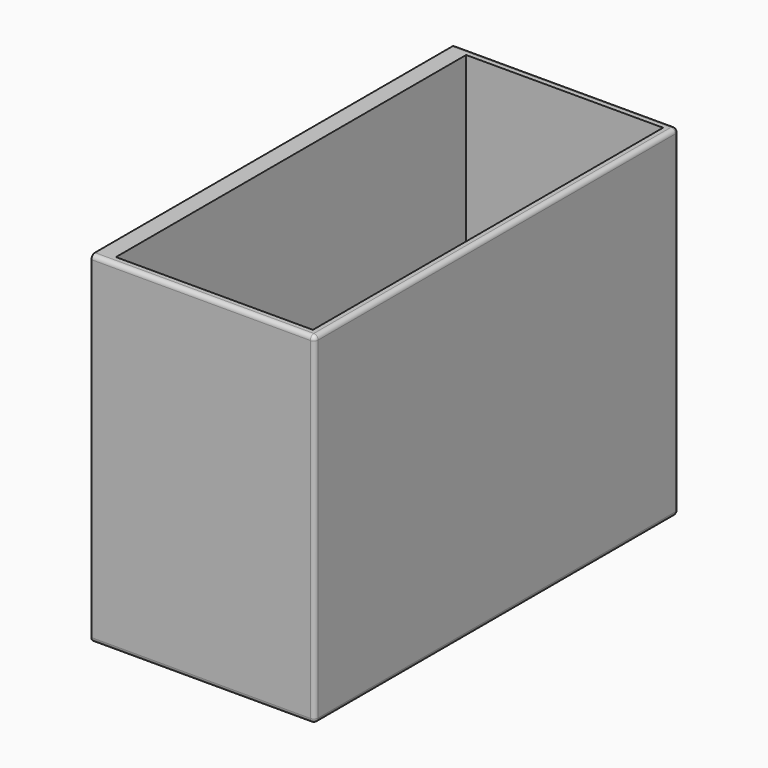
from build123d import *

# Parameters (mm, degrees)
SKETCH_W        = 51
SKETCH_H        = 104
PAD_DEPTH       = 78
SKETCH001_W     = 45
SKETCH001_H     = 100
POCKET_DEPTH    = 75
FILLET_R        = 1
SKETCH002_W     = 20.5
SKETCH002_H     = 6.5
POCKET001_DEPTH = 2


with BuildPart() as part:
    # Sketch → Pad (new body)
    with BuildSketch(Plane.XY):
        with Locations((25.5, 52)):
            Rectangle(SKETCH_W, SKETCH_H)
    extrude(amount=PAD_DEPTH)

    # Sketch001 (on Face6 of Pad) → Pocket (cut)
    with BuildSketch(Plane.XY.offset(78)):
        with Locations((26.5, 52)):
            Rectangle(SKETCH001_W, SKETCH001_H)
    extrude(amount=-POCKET_DEPTH, mode=Mode.SUBTRACT)

    # Fillet
    fillet_edges = [part.edges().sort_by_distance(p)[0] for p in [
        (51, 0, 39),
        (51, 104, 39),
        (51, 52, 0),
        (25.5, 0, 0),
        (51, 52, 78),
        (25.5, 0, 78),
        (25.5, 104, 78),
        (25.5, 104, 0),
    ]]
    fillet(fillet_edges, radius=FILLET_R)

    # Sketch002 (on Face2 of Fillet) → Pocket001 (cut, symmetric)
    with BuildSketch(Plane(origin=(0, 0, 0), x_dir=(0, -1, 0), z_dir=(-1, 0, 0))):
        with Locations((-84.25, 59.75)):
            Rectangle(SKETCH002_W, SKETCH002_H)
        with Locations((-84.25, 23.25)):
            Rectangle(SKETCH002_W, SKETCH002_H)
        with Locations((-21.25, 59.75)):
            Rectangle(SKETCH002_W, SKETCH002_H)
        with Locations((-21.25, 23.25)):
            Rectangle(SKETCH002_W, SKETCH002_H)
        with Locations((-53.276467, 59.75)):
            Rectangle(SKETCH002_W, SKETCH002_H)
        with Locations((-52.75, 23.25)):
            Rectangle(SKETCH002_W, SKETCH002_H)
    extrude(amount=POCKET001_DEPTH, both=True, mode=Mode.SUBTRACT)


solid = part.part
